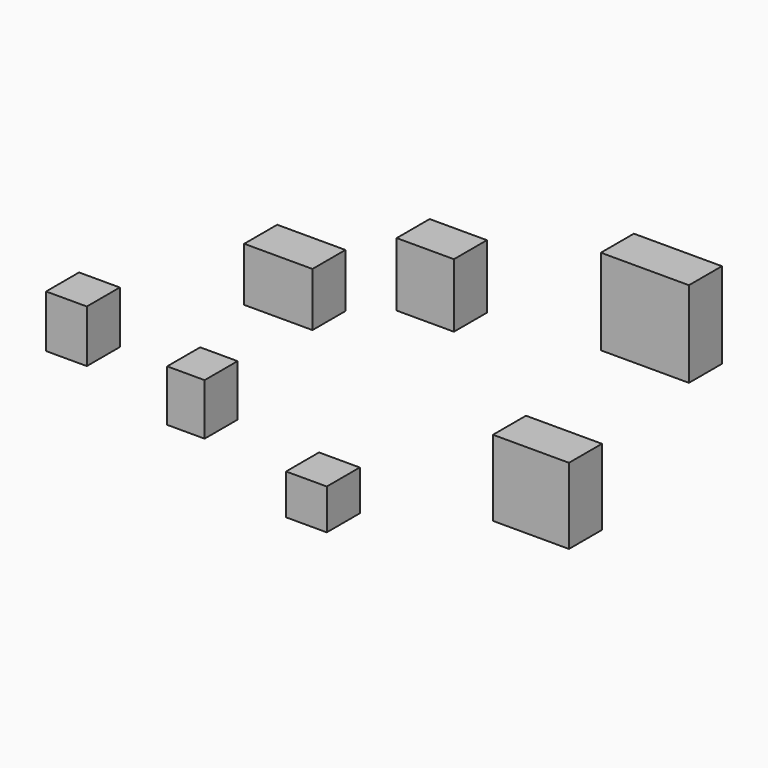
from build123d import *

# Parameters (mm, degrees)
F0_W     = 41.389614
F0_H     = 32.642957
F0_W_2   = 34.713867
F0_H_2   = 38.72674
F0_W_3   = 53.405971
F0_H_3   = 52.133561
F0_W_4   = 46.062648
F0_H_4   = 46.008285
F1_DEPTH = 25
F2_W     = 24.700254
F2_H     = 31.830598
F2_W_2   = 22.697523
F2_H_2   = 31.252466
F2_W_3   = 24.700247
F2_H_3   = 24.487302
F3_DEPTH = 25


with BuildPart() as f1:
    # F0 (on Front) → F1 (new body)
    with BuildSketch(Plane.XZ):
        with Locations((-68.426363, 36.990821)):
            Rectangle(F0_W, F0_H)
        with Locations((20.694802, 67.057125)):
            Rectangle(F0_W_2, F0_H_2)
        with Locations((153.875872, 92.819274)):
            Rectangle(F0_W_3, F0_H_3)
        with Locations((84.781937, -22.589547)):
            Rectangle(F0_W_4, F0_H_4)
    extrude(amount=F1_DEPTH)


with BuildPart() as f3:
    # F2 (on Front) → F3 (new body)
    with BuildSketch(Plane.XZ):
        with Locations((-196.934417, -27.143011)):
            Rectangle(F2_W, F2_H)
        with Locations((-124.502606, -42.950336)):
            Rectangle(F2_W_2, F2_H_2)
        with Locations((-51.403221, -72.250217)):
            Rectangle(F2_W_3, F2_H_3)
    extrude(amount=F3_DEPTH)


solid = Compound([f1.part, f3.part])
